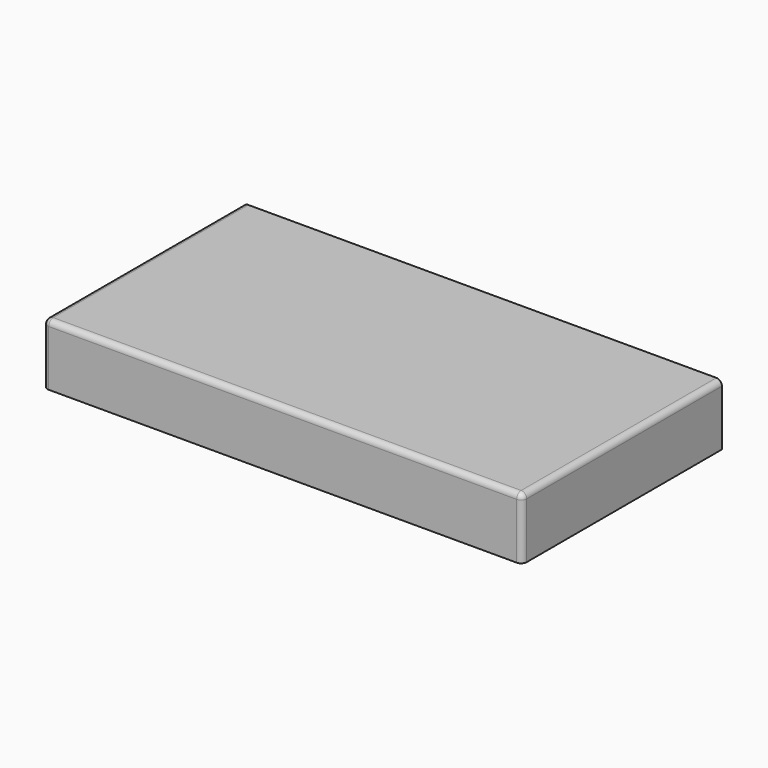
from build123d import *

# Parameters (mm, degrees)
F0_W     = 430
F0_H     = 224
F1_DEPTH = 55
F2_R     = 5


with BuildPart() as f1:
    # F0 (on Top) → F1 (new body)
    with BuildSketch(Plane.XY):
        with Locations((12.159174, 14.849805)):
            Rectangle(F0_W, F0_H)
    extrude(amount=F1_DEPTH)

    # F2
    f2_edges = [f1.edges().sort_by_distance(p)[0] for p in [
        (-202.840826, 14.849805, 55),
        (-202.840826, -97.150195, 27.5),
        (12.159174, -97.150195, 55),
        (227.159174, 14.849805, 55),
        (227.159174, -97.150195, 27.5),
    ]]
    fillet(f2_edges, radius=F2_R)


solid = f1.part
